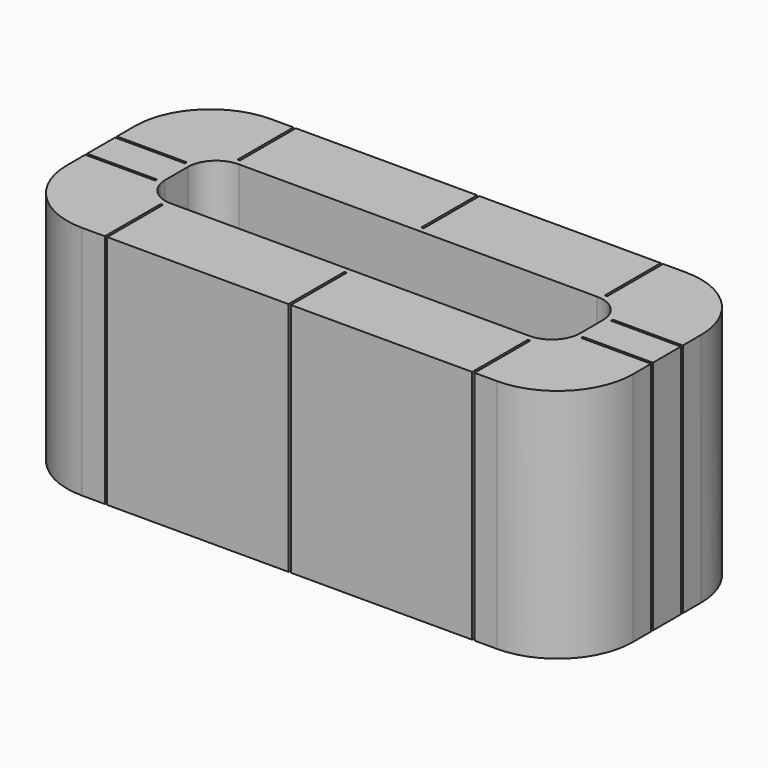
from build123d import *

# Parameters (mm, degrees)
F1_DEPTH = 25
F3_DEPTH = 25
F4_DEPTH = 50.001
F5_W     = 0.25
F5_H     = 7.4
F5_W_2   = 7.4
F5_H_2   = 0.25
F6_DEPTH = 25.001


with BuildPart() as f1:
    # F0 (on Top) → F1 (new body)
    with BuildSketch(Plane.XY):
        with BuildLine():
            ThreePointArc((30, 4.5), (27.656854, 10.156854), (22, 12.5))
            Line((22, 12.5), (-22, 12.5))
            ThreePointArc((-22, 12.5), (-27.656854, 10.156854), (-30, 4.5))
            Line((-30, 4.5), (-30, -4.5))
            ThreePointArc((-30, -4.5), (-27.656854, -10.156854), (-22, -12.5))
            Line((-22, -12.5), (22, -12.5))
            ThreePointArc((22, -12.5), (27.656854, -10.156854), (30, -4.5))
            Line((30, -4.5), (30, 4.5))
        make_face()
    extrude(amount=F1_DEPTH)

    # F2 (on face) → F3 (join)
    with BuildSketch(Plane.XY.offset(25)):
        with BuildLine():
            ThreePointArc((22, 1.5), (21.12132, 3.62132), (19, 4.5))
            Line((19, 4.5), (-19, 4.5))
            ThreePointArc((-19, 4.5), (-21.12132, 3.62132), (-22, 1.5))
            Line((-22, 1.5), (-22, -1.5))
            ThreePointArc((-22, -1.5), (-21.12132, -3.62132), (-19, -4.5))
            Line((-19, -4.5), (19, -4.5))
            ThreePointArc((19, -4.5), (21.12132, -3.62132), (22, -1.5))
            Line((22, -1.5), (22, 1.5))
        make_face()
    extrude(amount=F3_DEPTH)

    # F3_face (on face) → F4 (cut, through all)
    with BuildSketch(Plane.XY.offset(50)):
        with BuildLine():
            ThreePointArc((22, 1.5), (21.12132, 3.62132), (19, 4.5))
            Line((19, 4.5), (-19, 4.5))
            ThreePointArc((-19, 4.5), (-21.12132, 3.62132), (-22, 1.5))
            Line((-22, 1.5), (-22, -1.5))
            ThreePointArc((-22, -1.5), (-21.12132, -3.62132), (-19, -4.5))
            Line((-19, -4.5), (19, -4.5))
            ThreePointArc((19, -4.5), (21.12132, -3.62132), (22, -1.5))
            Line((22, -1.5), (22, 1.5))
        make_face()
    extrude(amount=-F4_DEPTH, mode=Mode.SUBTRACT)

    # F5 (on face) → F6 (cut, through all)
    with BuildSketch(Plane.XY.offset(25)):
        with Locations((-19.475, 8.8)):
            Rectangle(F5_W, F5_H)
        with Locations((19.475, 8.8)):
            Rectangle(F5_W, F5_H)
        with Locations((-19.475, -8.8)):
            Rectangle(F5_W, F5_H)
        with Locations((19.475, -8.8)):
            Rectangle(F5_W, F5_H)
        with Locations((26.3, -1.975)):
            Rectangle(F5_W_2, F5_H_2)
        with Locations((26.3, 1.975)):
            Rectangle(F5_W_2, F5_H_2)
        with Locations((-26.3, 1.975)):
            Rectangle(F5_W_2, F5_H_2)
        with Locations((-26.3, -1.975)):
            Rectangle(F5_W_2, F5_H_2)
        with Locations((0, -8.8)):
            Rectangle(F5_W, F5_H)
        with Locations((0, 8.8)):
            Rectangle(F5_W, F5_H)
    extrude(amount=-F6_DEPTH, mode=Mode.SUBTRACT)


solid = f1.part
